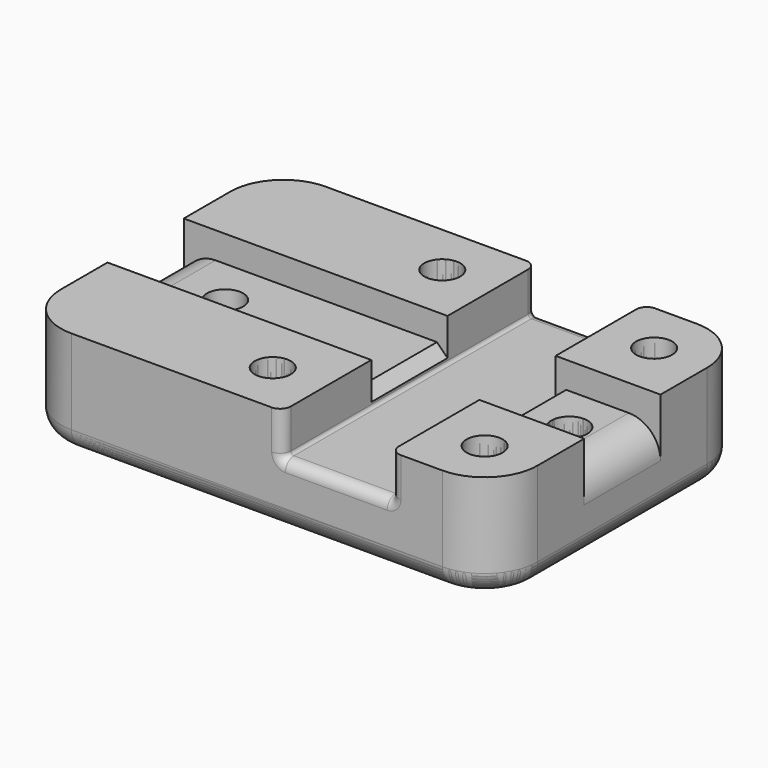
from build123d import *

# Parameters (mm, degrees)
SKETCH_W        = 45
SKETCH_H        = 30
SKETCH_R        = 1.7
PAD_DEPTH       = 10
SKETCH001_W     = 10.2
SKETCH001_H     = 30
POCKET_DEPTH    = 4
SKETCH003_W     = 9
SKETCH003_H     = 2.5
POCKET002_DEPTH = 45.001
FILLET_R        = 3
FILLET001_R     = 3
FILLET002_R     = 0.3
FILLET003_R     = 0.3
CHAMFER_SIZE    = 1
CHAMFER001_SIZE = 1
FILLET004_R     = 1
FILLET005_R     = 1
FILLET006_R     = 5
FILLET007_R     = 5
FILLET008_R     = 5
FILLET009_R     = 5
FILLET010_R     = 2
SKETCH002_R     = 2.5
POCKET003_DEPTH = 6
CHAMFER002_SIZE = 1.7
CHAMFER003_SIZE = 1.7
CHAMFER004_SIZE = 1.7
CHAMFER005_SIZE = 1.7
CHAMFER006_SIZE = 1.7
CHAMFER007_SIZE = 1.7


with BuildPart() as fillet010:
    # Sketch → Pad (new body)
    with BuildSketch(Plane.XY):
        with Locations((-7.5, 0)):
            Rectangle(SKETCH_W, SKETCH_H)
        with Locations((-10, 10)):
            Circle(SKETCH_R, mode=Mode.SUBTRACT)
        with Locations((-10, -10)):
            Circle(SKETCH_R, mode=Mode.SUBTRACT)
        with Locations((10, 10)):
            Circle(SKETCH_R, mode=Mode.SUBTRACT)
        with Locations((10, -10)):
            Circle(SKETCH_R, mode=Mode.SUBTRACT)
        with Locations((10, 0)):
            Circle(SKETCH_R, mode=Mode.SUBTRACT)
        with Locations((-22.5, 0)):
            Circle(SKETCH_R, mode=Mode.SUBTRACT)
    extrude(amount=PAD_DEPTH)

    # Sketch001 → Pocket (cut)
    with BuildSketch(Plane.XY.offset(10)):
        Rectangle(SKETCH001_W, SKETCH001_H)
    extrude(amount=-POCKET_DEPTH, mode=Mode.SUBTRACT)

    # Sketch003 → Pocket002 (cut, through all)
    with BuildSketch(Plane.YZ.offset(15)):
        with Locations((0, 8.75)):
            Rectangle(SKETCH003_W, SKETCH003_H)
    extrude(amount=-POCKET002_DEPTH, mode=Mode.SUBTRACT)

    # Fillet
    fillet_edges = [fillet010.edges().sort_by_distance(p)[0] for p in [
        (15, 0, 7.5),
    ]]
    fillet(fillet_edges, radius=FILLET_R)

    # Fillet001
    fillet001_edges = [fillet010.edges().sort_by_distance(p)[0] for p in [
        (-30, 0, 7.5),
    ]]
    fillet(fillet001_edges, radius=FILLET001_R)

    # Fillet002
    fillet002_edges = [fillet010.edges().sort_by_distance(p)[0] for p in [
        (5.1, 0, 6),
    ]]
    fillet(fillet002_edges, radius=FILLET002_R)

    # Fillet003
    fillet003_edges = [fillet010.edges().sort_by_distance(p)[0] for p in [
        (-5.1, 0, 6),
    ]]
    fillet(fillet003_edges, radius=FILLET003_R)

    # Chamfer
    chamfer_edges = [fillet010.edges().sort_by_distance(p)[0] for p in [
        (5.1, 0, 7.5),
    ]]
    chamfer(chamfer_edges, length=CHAMFER_SIZE)

    # Chamfer001
    chamfer001_edges = [fillet010.edges().sort_by_distance(p)[0] for p in [
        (-5.1, 0, 7.5),
    ]]
    chamfer(chamfer001_edges, length=CHAMFER001_SIZE)

    # Fillet004
    fillet004_edges = [fillet010.edges().sort_by_distance(p)[0] for p in [
        (0, -15, 6),
    ]]
    fillet(fillet004_edges, radius=FILLET004_R)

    # Fillet005
    fillet005_edges = [fillet010.edges().sort_by_distance(p)[0] for p in [
        (5.1, 15, 8.15),
    ]]
    fillet(fillet005_edges, radius=FILLET005_R)

    # Fillet006
    fillet006_edges = [fillet010.edges().sort_by_distance(p)[0] for p in [
        (15, 15, 5),
    ]]
    fillet(fillet006_edges, radius=FILLET006_R)

    # Fillet007
    fillet007_edges = [fillet010.edges().sort_by_distance(p)[0] for p in [
        (15, -15, 5),
    ]]
    fillet(fillet007_edges, radius=FILLET007_R)

    # Fillet008
    fillet008_edges = [fillet010.edges().sort_by_distance(p)[0] for p in [
        (-30, -15, 5),
    ]]
    fillet(fillet008_edges, radius=FILLET008_R)

    # Fillet009
    fillet009_edges = [fillet010.edges().sort_by_distance(p)[0] for p in [
        (-30, 15, 5),
    ]]
    fillet(fillet009_edges, radius=FILLET009_R)

    # Fillet010
    fillet010_edges = [fillet010.edges().sort_by_distance(p)[0] for p in [
        (15, 0, 0),
    ]]
    fillet(fillet010_edges, radius=FILLET010_R)


with BuildPart() as a_brassinsert:
    # Pocket003 base: copy of Fillet010
    add(fillet010.part)

    # Sketch002 → Pocket003 (cut)
    with BuildSketch(Plane(origin=(0, 0, 0), x_dir=(1, 0, 0), z_dir=(0, 0, -1))):
        with Locations((-10, 10)):
            Circle(SKETCH002_R)
        with Locations((10, 10)):
            Circle(SKETCH002_R)
        with Locations((10, -10)):
            Circle(SKETCH002_R)
        with Locations((-10, -10)):
            Circle(SKETCH002_R)
        with Locations((10, 0)):
            Circle(SKETCH002_R)
        with Locations((-22.5, 0)):
            Circle(SKETCH002_R)
    extrude(amount=-POCKET003_DEPTH, mode=Mode.SUBTRACT)


with BuildPart() as b_countersunk:
    # Chamfer002 base: copy of Fillet010
    add(fillet010.part)

    # Chamfer002
    chamfer002_edges = [b_countersunk.edges().sort_by_distance(p)[0] for p in [
        (8.3, -10, 0),
    ]]
    chamfer(chamfer002_edges, length=CHAMFER002_SIZE)

    # Chamfer003
    chamfer003_edges = [b_countersunk.edges().sort_by_distance(p)[0] for p in [
        (8.3, 0, 0),
    ]]
    chamfer(chamfer003_edges, length=CHAMFER003_SIZE)

    # Chamfer004
    chamfer004_edges = [b_countersunk.edges().sort_by_distance(p)[0] for p in [
        (8.3, 10, 0),
    ]]
    chamfer(chamfer004_edges, length=CHAMFER004_SIZE)

    # Chamfer005
    chamfer005_edges = [b_countersunk.edges().sort_by_distance(p)[0] for p in [
        (-11.7, -10, 0),
    ]]
    chamfer(chamfer005_edges, length=CHAMFER005_SIZE)

    # Chamfer006
    chamfer006_edges = [b_countersunk.edges().sort_by_distance(p)[0] for p in [
        (-11.7, 10, 0),
    ]]
    chamfer(chamfer006_edges, length=CHAMFER006_SIZE)

    # Chamfer007
    chamfer007_edges = [b_countersunk.edges().sort_by_distance(p)[0] for p in [
        (-24.2, 0, 0),
    ]]
    chamfer(chamfer007_edges, length=CHAMFER007_SIZE)


solid = Compound([a_brassinsert.part, b_countersunk.part])
